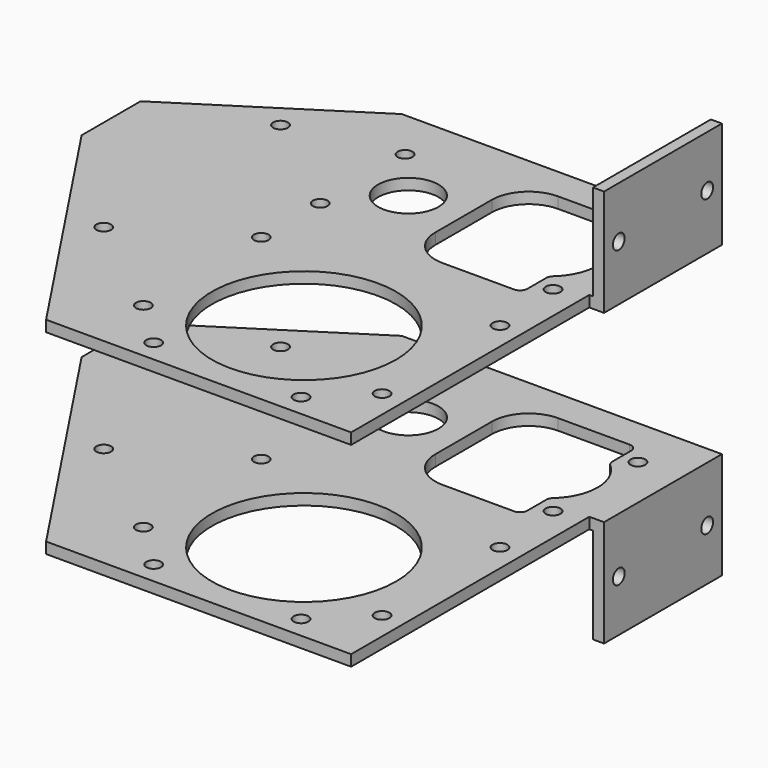
from build123d import *

# Parameters (mm, degrees)
F0_R      = 1
F0_R_2    = 12.5
F0_R_3    = 4.1
F1_DEPTH  = 1.5
F2_W      = 20
F2_H      = 1.5
F3_DEPTH  = 2
F4_W      = 1.5
F4_H      = 20
F5_DEPTH  = 13
F8_R      = 1
F9_DEPTH  = 1.5
F10_W     = 60.4
F10_H     = 1.5
F11_DEPTH = 26.5
F12_R     = 1
F13_DEPTH = 1.5
F16_R     = 1
F17_DEPTH = 25


with BuildPart() as f1:
    # F0 (on Top) → F1 (new body)
    with BuildSketch(Plane.XY):
        Polygon((19.2, -14.2), (19.2, 14.2), (-19.2, 14.2), (-19.2, -14.2), (-19.2, -46.2), (19.2, -46.2), align=None)
        with Locations((-10, -43.2)):
            Circle(F0_R, mode=Mode.SUBTRACT)
        with Locations((-16.2, -37.2)):
            Circle(F0_R, mode=Mode.SUBTRACT)
        with Locations((-16.2, -17.2)):
            Circle(F0_R, mode=Mode.SUBTRACT)
        with Locations((10, -43.2)):
            Circle(F0_R, mode=Mode.SUBTRACT)
        with Locations((16.2, -37.2)):
            Circle(F0_R, mode=Mode.SUBTRACT)
        with Locations((0, -30.2)):
            Circle(F0_R_2, mode=Mode.SUBTRACT)
        with Locations((16.2, -17.2)):
            Circle(F0_R, mode=Mode.SUBTRACT)
        with Locations((-16.2, -7.2)):
            Circle(F0_R, mode=Mode.SUBTRACT)
        with Locations((-10, 0)):
            Circle(F0_R_3, mode=Mode.SUBTRACT)
        with Locations((-16.2, 7.2)):
            Circle(F0_R, mode=Mode.SUBTRACT)
        with Locations((15.4, -7.2)):
            Circle(F0_R, mode=Mode.SUBTRACT)
        with BuildLine():
            ThreePointArc((-2.5, 4.8), (-1.035534, 8.335534), (2.5, 9.8))
            Line((2.5, 9.8), (12.2, 9.8))
            ThreePointArc((12.2, 9.8), (12.907107, 9.507107), (13.2, 8.8))
            Line((13.2, 8.8), (13.2, 5.59017))
            ThreePointArc((13.2, 5.59017), (13.287129, 5.181922), (13.533333, 4.844814))
            ThreePointArc((13.533333, 4.844814), (15.7, 0), (13.533333, -4.844814))
            ThreePointArc((13.533333, -4.844814), (13.287129, -5.181922), (13.2, -5.59017))
            Line((13.2, -5.59017), (13.2, -8.8))
            ThreePointArc((13.2, -8.8), (12.907107, -9.507107), (12.2, -9.8))
            Line((12.2, -9.8), (2.5, -9.8))
            ThreePointArc((2.5, -9.8), (-1.035534, -8.335534), (-2.5, -4.8))
            Line((-2.5, -4.8), (-2.5, 4.8))
        make_face(mode=Mode.SUBTRACT)
        with Locations((15.4, 7.2)):
            Circle(F0_R, mode=Mode.SUBTRACT)
    extrude(amount=F1_DEPTH)

    # F2 (on face) → F3 (join)
    with BuildSketch(Plane.YZ.offset(19.2)):
        with Locations((4.2, 0.75)):
            Rectangle(F2_W, F2_H)
    extrude(amount=F3_DEPTH)

    # F4 (on face) → F5 (join)
    with BuildSketch(Plane.XY.offset(1.5)):
        with Locations((20.45, 4.2)):
            Rectangle(F4_W, F4_H)
    extrude(amount=F5_DEPTH)


with BuildPart() as f7_1:
    # F7: instance of F1
    add(f1.part.mirror(Plane.XY.offset(-12.5)))


with BuildPart() as f9_tool:
    # F8 (on face) → F9 (new body, through all)
    with BuildSketch(Plane.YZ.offset(21.2)):
        with Locations((11.7, 7.5)):
            Circle(F8_R)
        with Locations((-3.3, 7.5)):
            Circle(F8_R)
        with Locations((11.7, -32.5)):
            Circle(F8_R)
        with Locations((-3.3, -32.5)):
            Circle(F8_R)
    extrude(amount=-F9_DEPTH)


with BuildPart() as f1_1:
    add(f1.part)

    # F9: cut by f9_tool
    add(f9_tool.part, mode=Mode.SUBTRACT)

    # F10 (on face) → F11 (join)
    with BuildSketch(Plane(origin=(-19.2, 0, 0), x_dir=(0, -1, 0), z_dir=(-1, 0, 0))):
        with Locations((16, 0.75)):
            Rectangle(F10_W, F10_H)
    extrude(amount=F11_DEPTH)

    # F12 (on face) → F13 (cut, through all)
    with BuildSketch(Plane.XY.offset(1.5)):
        Polygon((-22.2, -46.2), (-45.7, -10.8), (-45.7, -46.2), align=None)
        Polygon((-45.7, -0.8), (-22.25, 14.2), (-45.7, 14.2), align=None)
        with Locations((-30.7, 4.2)):
            Circle(F12_R)
        with Locations((-30.7, -25.8)):
            Circle(F12_R)
    extrude(amount=-F13_DEPTH, mode=Mode.SUBTRACT)


with BuildPart() as f7_1_1:
    add(f7_1.part)

    # F9: cut by f9_tool
    add(f9_tool.part, mode=Mode.SUBTRACT)

    # F14: F1 across plane
    add(f1_1.part.mirror(Plane.XY.offset(-12.5)))


with BuildPart() as f17:
    # F16 (on offset) → F17 (new body)
    with BuildSketch(Plane.XY.offset(25)):
        Polygon((-22.2, -46.2), (-22.25, 14.2), (-45.7, -0.8), (-45.7, -10.8), align=None)
        with Locations((-30.7, -25.8)):
            Circle(F16_R, mode=Mode.SUBTRACT)
        with Locations((-30.7, 4.2)):
            Circle(F16_R, mode=Mode.SUBTRACT)
    extrude(amount=F17_DEPTH)


solid = Compound([f1_1.part, f7_1_1.part])
